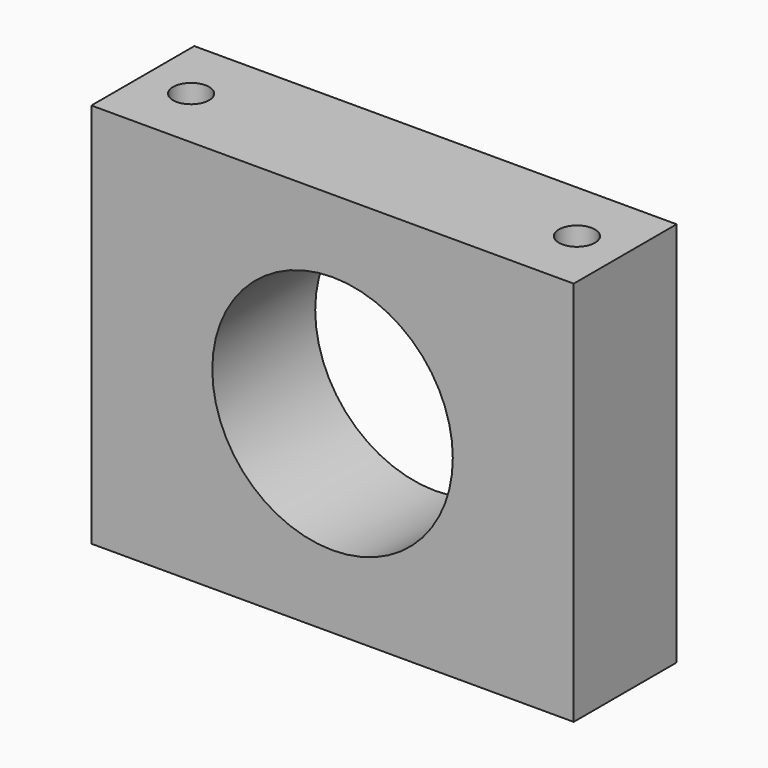
from build123d import *

# Parameters (mm, degrees)
F0_W     = 95.25
F0_H     = 76.2
F1_DEPTH = 25.4
F2_R     = 23.749
F3_DEPTH = 25.4
F4_R     = 3.5687
F5_DEPTH = 76.201


with BuildPart() as f1:
    # F0 (on Front) → F1 (new body)
    with BuildSketch(Plane.XZ):
        with Locations((-79.6795, 3.688855)):
            Rectangle(F0_W, F0_H)
    extrude(amount=F1_DEPTH)

    # F2 (on face) → F3 (cut)
    with BuildSketch(Plane.XZ.offset(25.4)):
        with Locations((-79.6795, 3.688855)):
            Circle(F2_R)
    extrude(amount=-F3_DEPTH, mode=Mode.SUBTRACT)

    # F4 (on face) → F5 (cut, through all)
    with BuildSketch(Plane.XY.offset(41.788855)):
        with Locations((-41.5795, -12.7)):
            Circle(F4_R)
        with Locations((-117.7795, -12.7)):
            Circle(F4_R)
    extrude(amount=-F5_DEPTH, mode=Mode.SUBTRACT)


solid = f1.part
